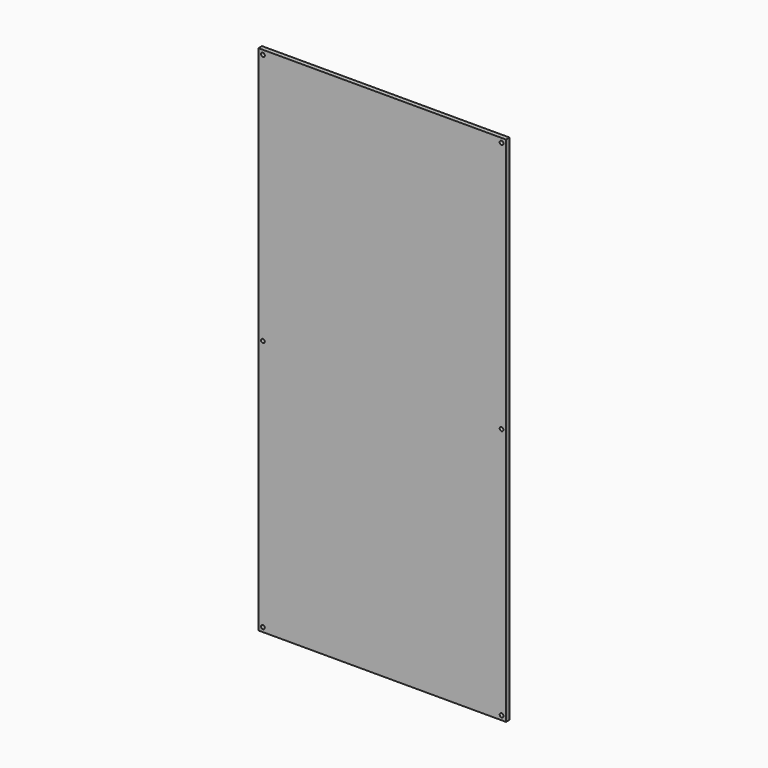
from build123d import *

# Parameters (mm, degrees)
F0_W     = 560
F0_H     = 1160
F1_DEPTH = 10
F3_D     = 8.5


with BuildPart() as f1:
    # F0 (on Front) → F1 (new body)
    with BuildSketch(Plane.XZ):
        Rectangle(F0_W, F0_H)
    extrude(amount=F1_DEPTH)

    # F3 (through all)
    with Locations(Plane.XZ.offset(10)):
        with Locations((-270, 570), (270, 570), (270, 0), (-270, 0), (-270, -570), (270, -570)):
            Hole(F3_D / 2)


solid = f1.part
